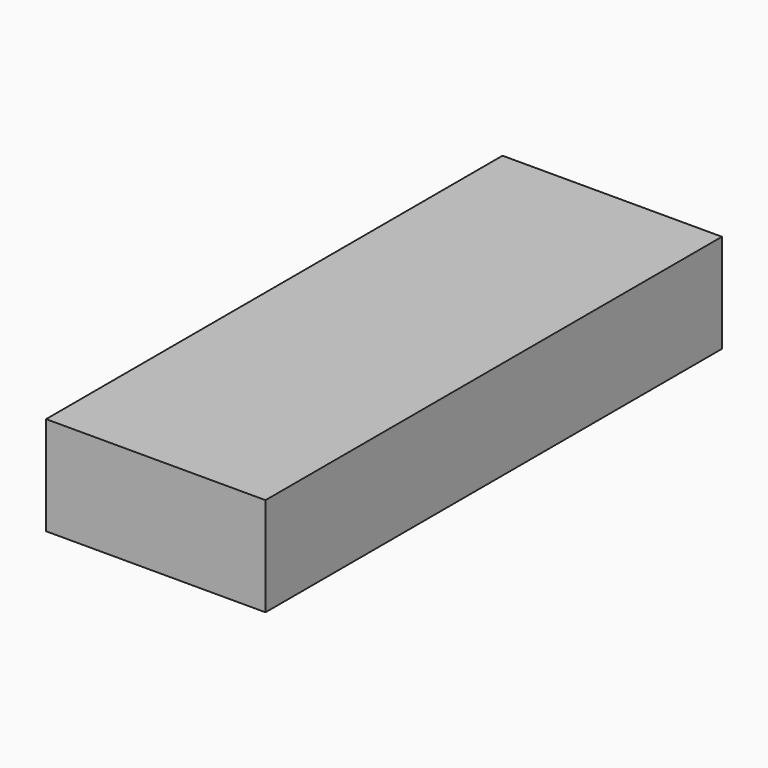
from build123d import *

# Parameters (mm, degrees)
F1_DEPTH = 2.5
F0_W     = 5
F0_H     = 5
F2_DEPTH = 20
F3_W     = 50
F3_H     = 130
F4_DEPTH = 2.5


with BuildPart() as f1:
    # F0 (on Top) → F1 (new body)
    with BuildSketch(Plane.XY):
        Polygon((17, 60), (17, 65), (-17, 65), (-17, 60), (-22, 60), (-22, -58), (22, -58), (22, 60), align=None)
    extrude(amount=F1_DEPTH)

    # F0 (on Top) → F2 (join)
    with BuildSketch(Plane.XY):
        with Locations((19.5, 62.5)):
            Rectangle(F0_W, F0_H)
        Polygon((25, -65), (25, 65), (22, 65), (22, 60), (22, -58), (-22, -58), (-22, 60), (-22, 65), (-25, 65), (-25, -65), align=None)
        with Locations((-19.5, 62.5)):
            Rectangle(F0_W, F0_H)
    extrude(amount=F2_DEPTH)

    # F3 (on face) → F4 (join)
    with BuildSketch(Plane.XY.offset(20)):
        Rectangle(F3_W, F3_H)
    extrude(amount=F4_DEPTH)


solid = f1.part
